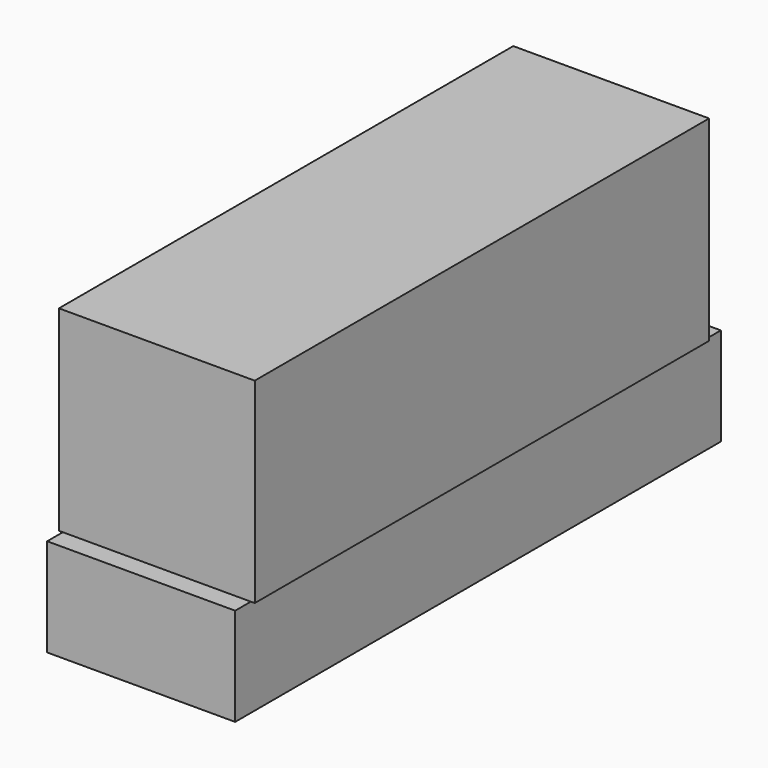
from build123d import *

# Parameters (mm, degrees)
F0_W     = 44
F0_H     = 139
F1_DEPTH = 45
F2_W     = 50
F2_H     = 145
F3_DEPTH = 50
F4_W     = 48
F4_H     = 155
F5_DEPTH = 25


with BuildPart() as f1:
    # F0 (on Top) → F1 (new body)
    with BuildSketch(Plane.XY):
        Rectangle(F0_W, F0_H)
    extrude(amount=F1_DEPTH)


with BuildPart() as f3:
    # F2 (on Top) → F3 (new body)
    with BuildSketch(Plane.XY):
        Rectangle(F2_W, F2_H)
    extrude(amount=F3_DEPTH)


with BuildPart() as f5:
    # F4 (on Top) → F5 (new body)
    with BuildSketch(Plane.XY):
        Rectangle(F4_W, F4_H)
    extrude(amount=-F5_DEPTH)


solid = Compound([f1.part, f3.part, f5.part])
